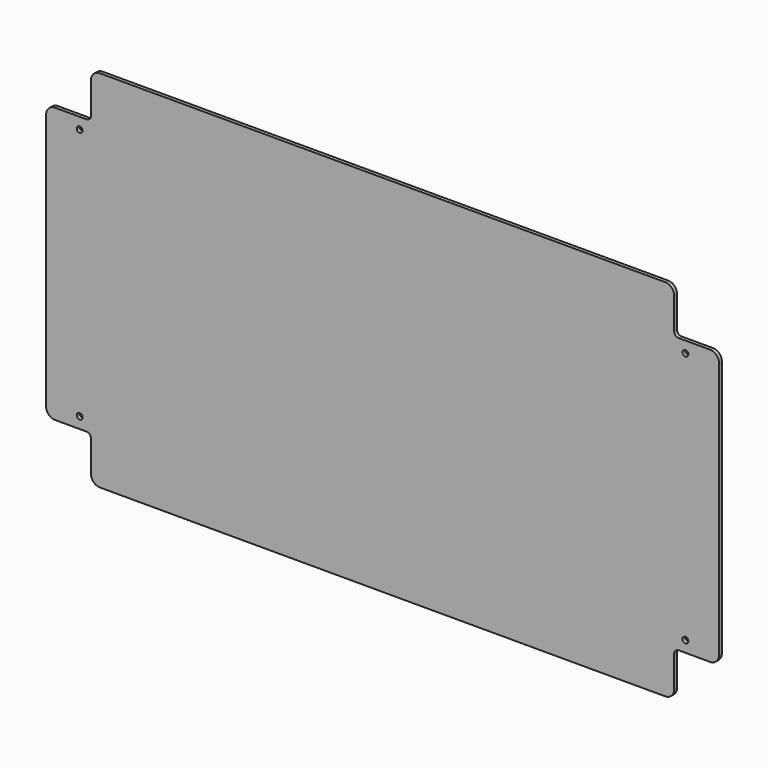
from build123d import *

# Parameters (mm, degrees)
F1_DEPTH = 4
F2_R     = 10
F3_R     = 5


with BuildPart() as f1:
    # F0 (on Front) → F1 (new body)
    with BuildSketch(Plane.XZ):
        Polygon((50, 50), (50, 0), (700, 0), (700, 50), (712.5, 50), (750, 50), (750, 356.37), (712.5, 356.37), (700, 356.37), (700, 406.37), (50, 406.37), (50, 356.37), (37.5, 356.37), (0, 356.37), (0, 50), (37.5, 50), align=None)
        with BuildLine():
            ThreePointArc((40.75, 62.5), (39.798097, 60.201903), (37.5, 59.25))
            ThreePointArc((37.5, 59.25), (35.201903, 64.798097), (40.75, 62.5))
        make_face(mode=Mode.SUBTRACT)
        with BuildLine():
            ThreePointArc((715.75, 62.5), (714.798097, 60.201903), (712.5, 59.25))
            ThreePointArc((712.5, 59.25), (710.201903, 64.798097), (715.75, 62.5))
        make_face(mode=Mode.SUBTRACT)
        with BuildLine():
            ThreePointArc((40.75, 343.87), (35.201903, 341.571903), (37.5, 347.12))
            ThreePointArc((37.5, 347.12), (39.798097, 346.168097), (40.75, 343.87))
        make_face(mode=Mode.SUBTRACT)
        with BuildLine():
            ThreePointArc((715.75, 343.87), (710.201903, 341.571903), (712.5, 347.12))
            ThreePointArc((712.5, 347.12), (714.798097, 346.168097), (715.75, 343.87))
        make_face(mode=Mode.SUBTRACT)
    extrude(amount=F1_DEPTH)

    # F2
    f2_edges = [f1.edges().sort_by_distance(p)[0] for p in [
        (0, -2, 356.37),
        (50, -2, 406.37),
        (0, -2, 50),
        (50, -2, 0),
        (700, -2, 0),
        (750, -2, 50),
        (750, -2, 356.37),
        (700, -2, 406.37),
    ]]
    fillet(f2_edges, radius=F2_R)

    # F3
    f3_edges = [f1.edges().sort_by_distance(p)[0] for p in [
        (700, -2, 356.37),
        (700, -2, 50),
        (50, -2, 50),
        (50, -2, 356.37),
    ]]
    fillet(f3_edges, radius=F3_R)


solid = f1.part
